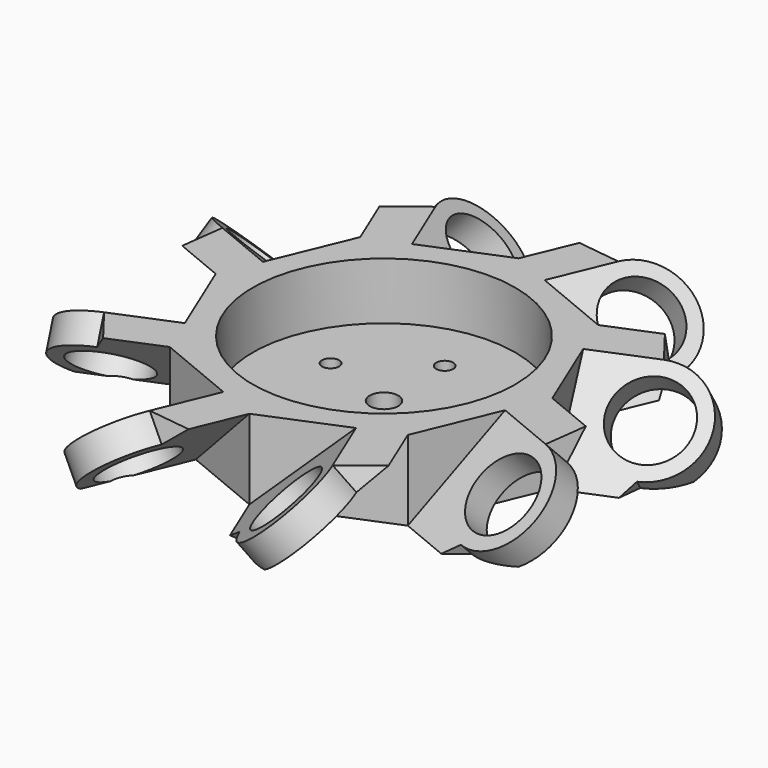
from build123d import *

# Parameters (mm, degrees)
PAD_DEPTH             = 14
SKETCH001_R           = 23
POCKET_DEPTH          = 10
SKETCH002_R           = 2.5
SKETCH002_R_2         = 1.5
POCKET001_DEPTH       = 173.2109287867
POLARPATTERN_COUNT    = 5
PAD001_DEPTH          = 21
POLARPATTERN001_COUNT = 8
SKETCH004_R           = 6.5
POCKET002_DEPTH       = 5
POLARPATTERN002_COUNT = 8


with BuildPart() as part:
    # Sketch → Pad (new body)
    with BuildSketch(Plane.XY):
        Polygon((29.5, 0), (20.859650045, 20.859650045), (0, 29.5), (-20.859650045, 20.859650045), (-29.5, 0), (-20.859650045, -20.859650045), (0, -29.5), (20.859650045, -20.859650045), align=None)
    extrude(amount=PAD_DEPTH)

    # Sketch001 (on Face10 of Pad) → Pocket (cut)
    with BuildSketch(Plane.XY.offset(14)):
        Circle(SKETCH001_R)
    extrude(amount=-POCKET_DEPTH, mode=Mode.SUBTRACT)

    # Sketch002 (on Face12 of Pocket) → Pocket001 (cut, through all)
    with BuildSketch(Plane.XY.offset(4)):
        Circle(SKETCH002_R)
        with Locations((0, 13.3)):
            Circle(SKETCH002_R_2)
    pocket001 = extrude(amount=-POCKET001_DEPTH, mode=Mode.SUBTRACT)

    # PolarPattern: Pocket001 ×5 about axis
    polarpattern_axis = Axis((0, 0, 4), (0, 0, 1))
    for i in range(1, POLARPATTERN_COUNT):
        add(pocket001.rotate(polarpattern_axis, i * 360 / POLARPATTERN_COUNT), mode=Mode.SUBTRACT)

    # Sketch003 (on Face8 of PolarPattern) → Pad001 (join)
    with BuildSketch(Plane(origin=(-10.4298250225, -25.1798250225, 0), x_dir=(0.9238795325, -0.3826834324, 0), z_dir=(-0.3826834324, -0.9238795325, 0))):
        Polygon((-11.2891612548, 0), (3.9092426218, 14), (11.2891612548, 14), (-3.9092426218, 0), align=None)
    pad001 = extrude(amount=PAD001_DEPTH)

    # PolarPattern001: Pad001 ×8 about axis
    polarpattern001_axis = Axis((0, 0, 0), (0, 0, 1))
    for i in range(1, POLARPATTERN001_COUNT):
        add(pad001.rotate(polarpattern001_axis, i * 360 / POLARPATTERN001_COUNT))

    # Sketch004 (on Face33 of PolarPattern001) → Pocket002 (cut)
    with BuildSketch(Plane(origin=(-4.7875561885, -1.9830707039, 5.6255952654), x_dir=(0.7798699787, -0.208098843, 0.5903369274), z_dir=(-0.6259415438, -0.2592734767, 0.7355096519))):
        with Locations((21.9449518208, -32.1188270446)):
            Circle(SKETCH004_R)
        with BuildLine():
            Line((14.1030025385, -36.5351412832), (10.8005808993, -36.0996031065))
            Line((10.8005808993, -36.0996031065), (16.4436490931, -46.1198716338))
            Line((16.4436490931, -46.1198716338), (39.1781340839, -33.3165970703))
            Line((33.5350658901, -23.296328543), (39.1781340839, -33.3165970703))
            Line((29.786901103, -27.7025128059), (33.5350658901, -23.296328543))
            ThreePointArc((14.1030025385, -36.5351412832), (26.3612660594, -39.9607763268), (29.786901103, -27.7025128059))
        make_face()
    pocket002 = extrude(amount=-POCKET002_DEPTH, mode=Mode.SUBTRACT)

    # PolarPattern002: Pocket002 ×8 about axis
    polarpattern002_axis = Axis((0, 0, 0), (0, 0, 1))
    for i in range(1, POLARPATTERN002_COUNT):
        add(pocket002.rotate(polarpattern002_axis, i * 360 / POLARPATTERN002_COUNT), mode=Mode.SUBTRACT)


solid = part.part
